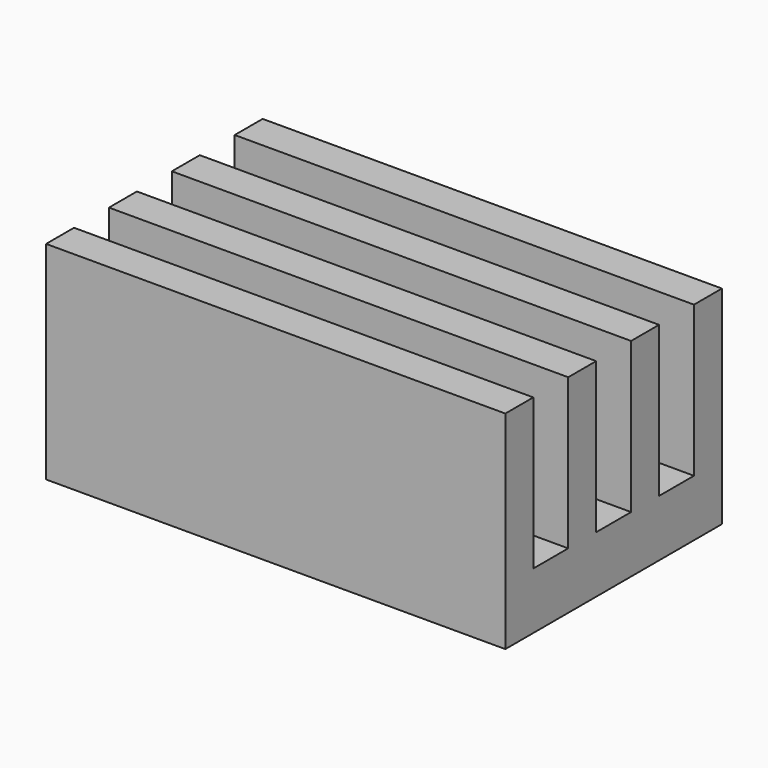
from build123d import *

# Parameters (mm, degrees)
F0_W     = 10.518072
F0_H     = 0.8
F0_H_2   = 1
F1_DEPTH = 1.3
F2_DEPTH = 4.75


with BuildPart() as f1:
    # F0 (on Top) → F1 (new body)
    with BuildSketch(Plane.XY):
        with Locations((0, 1.8)):
            Rectangle(F0_W, F0_H)
        with Locations((0, 0.9)):
            Rectangle(F0_W, F0_H_2)
        Rectangle(F0_W, F0_H)
        with Locations((0, -0.9)):
            Rectangle(F0_W, F0_H_2)
        with Locations((0, -1.8)):
            Rectangle(F0_W, F0_H)
        with Locations((0, -2.7)):
            Rectangle(F0_W, F0_H_2)
        with Locations((0, -3.6)):
            Rectangle(F0_W, F0_H)
    extrude(amount=F1_DEPTH)

    # F0 (on Top) → F2 (join)
    with BuildSketch(Plane.XY):
        with Locations((0, 1.8)):
            Rectangle(F0_W, F0_H)
        Rectangle(F0_W, F0_H)
        with Locations((0, -1.8)):
            Rectangle(F0_W, F0_H)
        with Locations((0, -3.6)):
            Rectangle(F0_W, F0_H)
    extrude(amount=F2_DEPTH)


solid = f1.part
